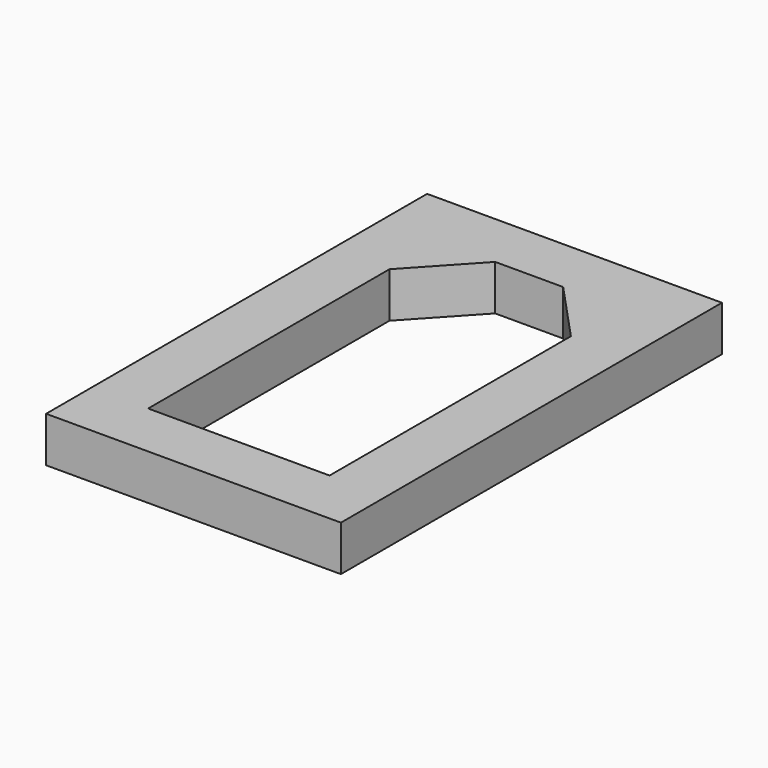
from build123d import *

# Parameters (mm, degrees)
F0_W     = 13
F0_H     = 21
F1_DEPTH = 2


with BuildPart() as f1:
    # F0 (on Top) → F1 (new body)
    with BuildSketch(Plane.XY):
        with Locations((0, 2.897532)):
            Rectangle(F0_W, F0_H)
        Polygon((4, -5.102468), (0, -5.102468), (-4, -5.102468), (-4, 8.197532), (-1.5, 10.897532), (0, 10.897532), (1.5, 10.897532), (4, 8.197532), align=None, mode=Mode.SUBTRACT)
    extrude(amount=F1_DEPTH)


solid = f1.part
